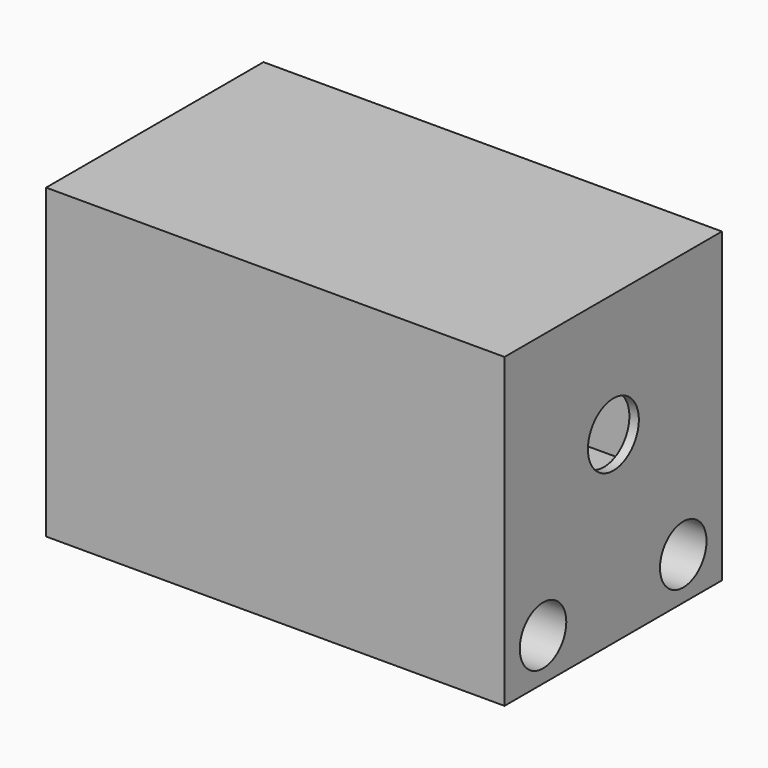
from build123d import *

# Parameters (mm, degrees)
F0_W     = 24.638
F0_H     = 16.51
F1_DEPTH = 14.605
F2_W     = 12.211425
F2_H     = 10.16
F3_DEPTH = 24.13
F4_R     = 1.711361
F5_DEPTH = 25.4
F6_R     = 1.5621
F7_DEPTH = 25.4
F9_DEPTH = 0.127


with BuildPart() as f1:
    # F0 (on Front) → F1 (new body)
    with BuildSketch(Plane.XZ):
        with Locations((-0.772754, 5.392659)):
            Rectangle(F0_W, F0_H)
    extrude(amount=F1_DEPTH)

    # F2 (on face) → F3 (cut)
    with BuildSketch(Plane(origin=(-13.091754, 0, 0), x_dir=(0, -1, 0), z_dir=(-1, 0, 0))):
        with Locations((7.292173, 7.007426)):
            Rectangle(F2_W, F2_H)
    extrude(amount=-F3_DEPTH, mode=Mode.SUBTRACT)

    # F4 (on face) → F5 (cut)
    with BuildSketch(Plane(origin=(11.038246, 0, 0), x_dir=(0, -1, 0), z_dir=(-1, 0, 0))):
        with Locations((7.292174, 7.007426)):
            Circle(F4_R)
    extrude(amount=-F5_DEPTH, mode=Mode.SUBTRACT)

    # F6 (on face) → F7 (cut)
    with BuildSketch(Plane.YZ.offset(11.546246)):
        with Locations((-2.5984, -0.579538)):
            Circle(F6_R)
        with Locations((-12.017213, -0.579538)):
            Circle(F6_R)
    extrude(amount=-F7_DEPTH, mode=Mode.SUBTRACT)

    # F8 (on face) → F9 (join)
    with BuildSketch(Plane(origin=(0, 0, -2.862341), x_dir=(1, 0, 0), z_dir=(0, 0, -1))):
        with BuildLine():
            Line((7.308862, 8.876015), (7.006992, 9.298633))
            ThreePointArc((7.006992, 9.298633), (5.738039, 7.660322), (6.644748, 5.796942))
            ThreePointArc((6.644748, 5.796942), (7.851761, 5.628954), (8.74961, 6.45295))
            ThreePointArc((8.74961, 6.45295), (8.365962, 7.347122), (7.39537, 7.278706))
            Line((7.39537, 7.278706), (7.477945, 6.793113))
            ThreePointArc((7.477945, 6.793113), (7.861302, 7.000267), (8.244659, 6.793113))
            ThreePointArc((8.244659, 6.793113), (7.849436, 6.179211), (7.127739, 6.068625))
            ThreePointArc((7.127739, 6.068625), (6.293176, 7.532006), (7.308862, 8.876015))
        make_face()
    extrude(amount=F9_DEPTH)


solid = f1.part
